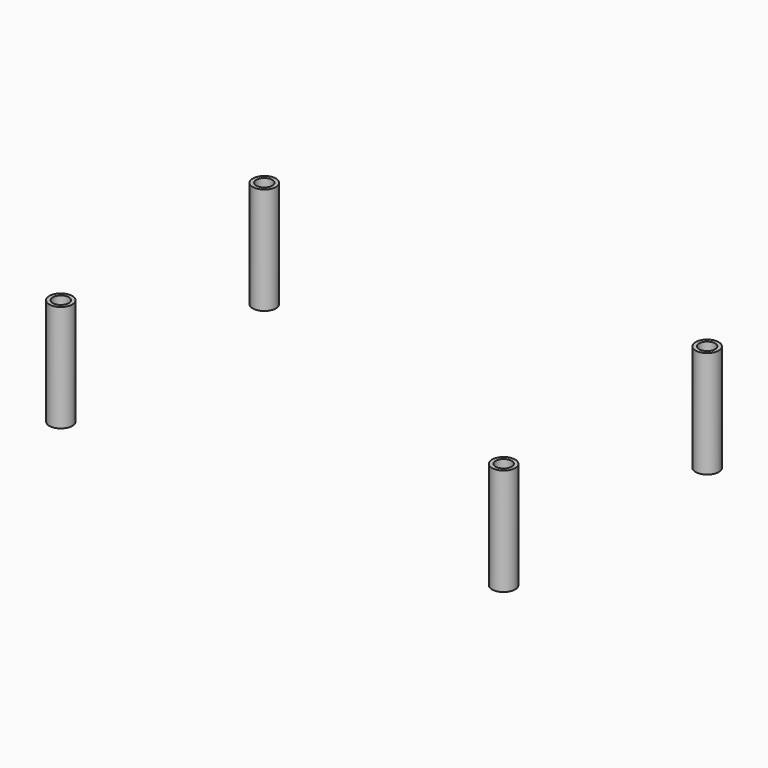
from build123d import *

# Parameters (mm, degrees)
SKETCH023_R      = 2.45
SKETCH023_R_2    = 1.7
PAD078_DEPTH     = 22.7
ARRAY008_X_COUNT = 2
ARRAY008_X_PITCH = 94
ARRAY008_Y_COUNT = 2
ARRAY008_Y_PITCH = 54


with BuildPart() as part:
    # Sketch023 → Pad078 (new body)
    with BuildSketch(Plane(origin=(0, 0, -1.63), x_dir=(-1, 0, 0), z_dir=(0, 0, -1))):
        Circle(SKETCH023_R)
        Circle(SKETCH023_R_2, mode=Mode.SUBTRACT)
    extrude(amount=PAD078_DEPTH)

    # Array008 X: part ×2


with BuildPart() as part_1:
    add(part.part)
    with Locations(*[(i * ARRAY008_X_PITCH, 0, 0) for i in range(1, ARRAY008_X_COUNT)]):
        add(part.part)

    # Array008 Y: part ×2


with BuildPart() as part_2:
    add(part_1.part)
    with Locations(*[(0, i * ARRAY008_Y_PITCH, 0) for i in range(1, ARRAY008_Y_COUNT)]):
        add(part_1.part)


with BuildPart() as part_3:
    # Array008 placement: moved
    add(part_2.part.moved(Location((-47, 0, 0))))


solid = part_3.part
